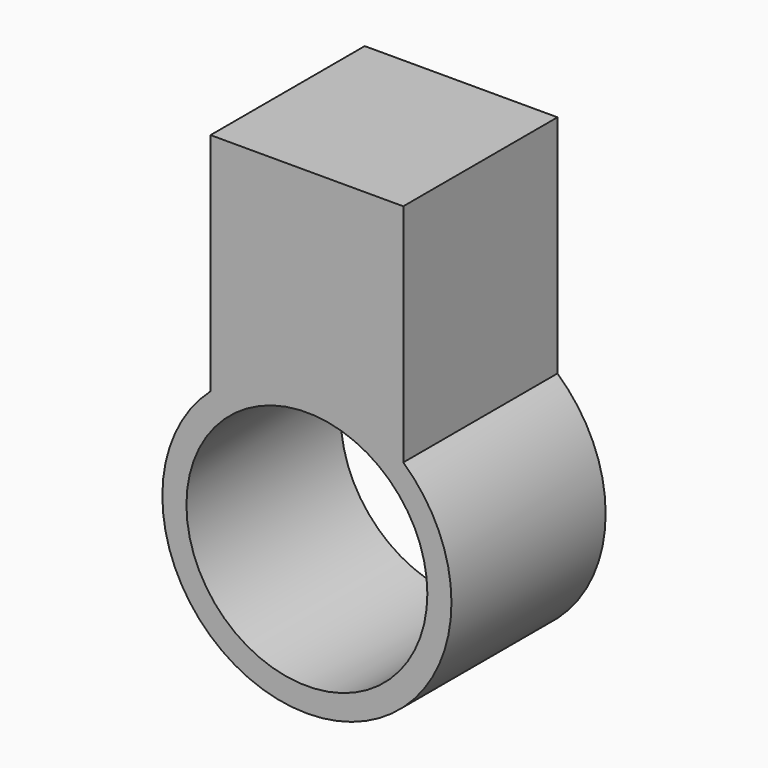
from build123d import *

# Parameters (mm, degrees)
F1_DEPTH = 50.8
F3_D     = 63.5


with BuildPart() as f1:
    # F0 (on Front) → F1 (new body)
    with BuildSketch(Plane.XZ):
        with BuildLine():
            ThreePointArc((-25.4, -30.7949761419), (-15.5542598667, -93.9734218577), (38.1, -59.1930394562))
            ThreePointArc((38.1, -59.1930394562), (34.7803824016, -43.6387795895), (25.4, -30.7949761419))
            Line((25.4, -30.7949761419), (25.4, -47.553297191))
            Line((25.4, -47.553297191), (-25.4, -47.553297191))
            Line((-25.4, -47.553297191), (-25.4, -30.7949761419))
        make_face()
        with BuildLine():
            Line((25.4, -47.553297191), (25.4, -30.7949761419))
            ThreePointArc((25.4, -30.7949761419), (0, -21.0930394562), (-25.4, -30.7949761419))
            Line((-25.4, -30.7949761419), (-25.4, -47.553297191))
            Line((-25.4, -47.553297191), (25.4, -47.553297191))
        make_face()
        with BuildLine():
            ThreePointArc((-25.4, -30.7949761419), (0, -21.0930394562), (25.4, -30.7949761419))
            Line((25.4, -30.7949761419), (25.4, 28.646702809))
            Line((25.4, 28.646702809), (-25.4, 28.646702809))
            Line((-25.4, 28.646702809), (-25.4, -30.7949761419))
        make_face()
    extrude(amount=F1_DEPTH)

    # F3 (through all)
    with Locations(Plane.XZ.offset(50.8)):
        with Locations((0, -59.1930394562)):
            Hole(F3_D / 2)


solid = f1.part
